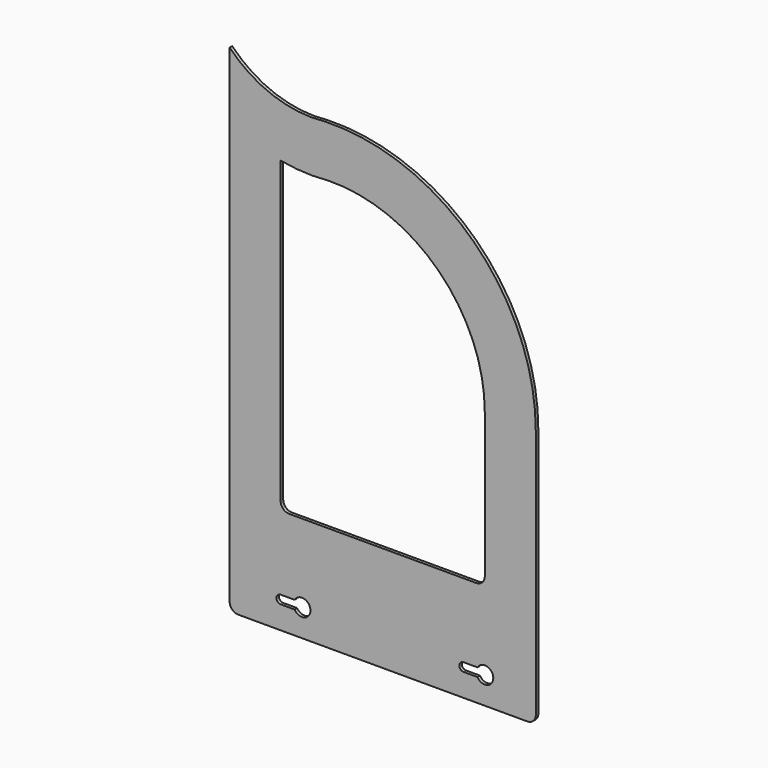
from build123d import *

# Parameters (mm, degrees)
F1_DEPTH = 4.7498


with BuildPart() as f1:
    # F0 (on Front) → F1 (new body)
    with BuildSketch(Plane.XZ):
        with BuildLine():
            Line((304.8, -304.8), (304.8, 0))
            ThreePointArc((304.8, 0), (211.944045, 219.049679), (-10.047519, 304.63435))
            ThreePointArc((-10.047519, 304.63435), (-87.131949, 313.614973), (-152.4, 355.6))
            Line((-152.4, 355.6), (-152.4, -304.8))
            Line((-152.4, -304.8), (0, -304.8))
            Line((0, -304.8), (304.8, -304.8))
        make_face()
        with BuildLine():
            ThreePointArc((-5.017896, 228.544921), (159.860672, 163.409074), (228.6, 0))
            Line((228.6, 0), (228.6, -215.9))
            ThreePointArc((228.6, -215.9), (224.880256, -224.880256), (215.9, -228.6))
            Line((215.9, -228.6), (0, -228.6))
            Line((0, -228.6), (-63.5, -228.6))
            ThreePointArc((-63.5, -228.6), (-72.480256, -224.880256), (-76.2, -215.9))
            Line((-76.2, -215.9), (-76.2, 231.850936))
            ThreePointArc((-76.2, 231.850936), (-40.728308, 227.627984), (-5.017896, 228.544921))
        make_face(mode=Mode.SUBTRACT)
        with BuildLine():
            Line((304.8, -373.124263), (304.8, -304.8))
            Line((304.8, -304.8), (0, -304.8))
            Line((0, -304.8), (-152.4, -304.8))
            Line((-152.4, -304.8), (-152.4, -373.124263))
            ThreePointArc((-152.4, -373.124263), (-148.680256, -382.104519), (-139.7, -385.824263))
            Line((-139.7, -385.824263), (292.1, -385.824263))
            ThreePointArc((292.1, -385.824263), (301.080256, -382.104519), (304.8, -373.124263))
        make_face()
        with BuildLine():
            ThreePointArc((-55.448523, -338.962132), (-31.75, -345.312132), (-55.448523, -351.662132))
            Line((-55.448523, -351.662132), (-76.2, -351.662132))
            ThreePointArc((-76.2, -351.662132), (-82.55, -345.312132), (-76.2, -338.962132))
            Line((-76.2, -338.962132), (-55.448523, -338.962132))
        make_face(mode=Mode.SUBTRACT)
        with BuildLine():
            ThreePointArc((217.601477, -338.962132), (241.3, -345.312132), (217.601477, -351.662132))
            Line((217.601477, -351.662132), (196.85, -351.662132))
            ThreePointArc((196.85, -351.662132), (190.5, -345.312132), (196.85, -338.962132))
            Line((196.85, -338.962132), (217.601477, -338.962132))
        make_face(mode=Mode.SUBTRACT)
    extrude(amount=F1_DEPTH)


solid = f1.part
